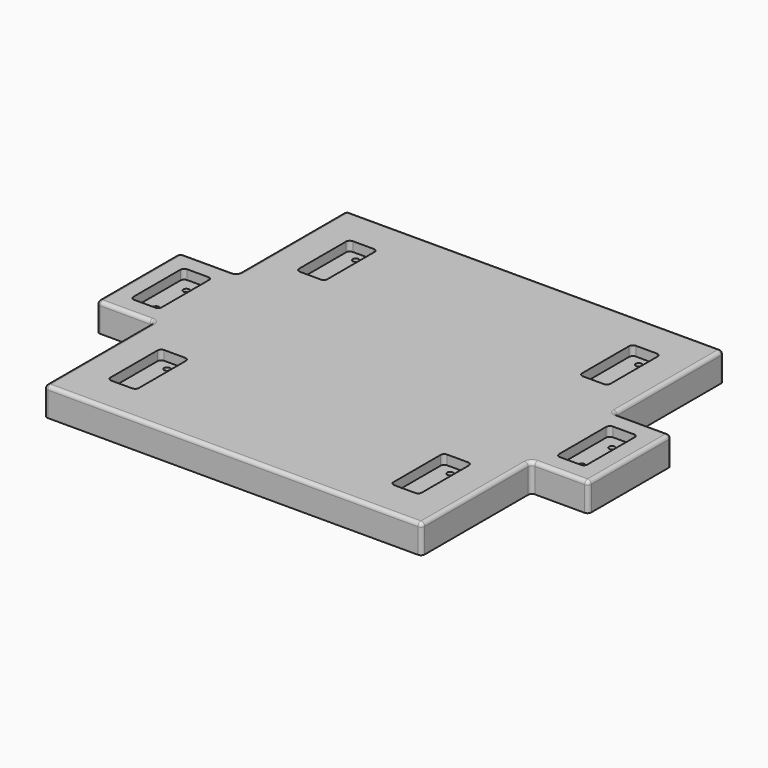
from build123d import *

# Parameters (mm, degrees)
F0_R     = 4
F1_DEPTH = 38.1
F2_R     = 5
F3_W     = 38.1
F3_H     = 88.9
F3_R     = 4
F4_DEPTH = 12.75
F5_R     = 5


with BuildPart() as f1:
    # F0 (on Top) → F1 (new body)
    with BuildSketch(Plane.XY):
        Polygon((253.5, 253.5), (-253.5, 253.5), (-253.5, 69.85), (-330.2, 69.85), (-330.2, -69.85), (-253.5, -69.85), (-253.5, -253.5), (253.5, -253.5), (253.5, -69.85), (330.2, -69.85), (330.2, 69.85), (253.5, 69.85), align=None)
        with Locations((-190, -190)):
            Circle(F0_R, mode=Mode.SUBTRACT)
        with Locations((-190, -126.5)):
            Circle(F0_R, mode=Mode.SUBTRACT)
        with Locations((-285.75, -25.4)):
            Circle(F0_R, mode=Mode.SUBTRACT)
        with Locations((190, -190)):
            Circle(F0_R, mode=Mode.SUBTRACT)
        with Locations((190, -126.5)):
            Circle(F0_R, mode=Mode.SUBTRACT)
        with Locations((285.75, -25.4)):
            Circle(F0_R, mode=Mode.SUBTRACT)
        with Locations((-285.75, 25.4)):
            Circle(F0_R, mode=Mode.SUBTRACT)
        with Locations((-190, 126.5)):
            Circle(F0_R, mode=Mode.SUBTRACT)
        with Locations((-190, 190)):
            Circle(F0_R, mode=Mode.SUBTRACT)
        with Locations((285.75, 25.4)):
            Circle(F0_R, mode=Mode.SUBTRACT)
        with Locations((190, 126.5)):
            Circle(F0_R, mode=Mode.SUBTRACT)
        with Locations((190, 190)):
            Circle(F0_R, mode=Mode.SUBTRACT)
    extrude(amount=F1_DEPTH)

    # F2
    f2_edges = [f1.edges().sort_by_distance(p)[0] for p in [
        (0, -253.5, 38.1),
        (-253.5, -161.675, 38.1),
        (-253.5, -253.5, 19.05),
        (-253.5, -69.85, 19.05),
        (-291.85, -69.85, 38.1),
        (-330.2, -69.85, 19.05),
        (-330.2, 0, 38.1),
        (-291.85, 69.85, 38.1),
        (-253.5, 161.675, 38.1),
        (0, 253.5, 38.1),
        (253.5, 161.675, 38.1),
        (291.85, 69.85, 38.1),
        (253.5, 69.85, 19.05),
        (253.5, 253.5, 19.05),
        (-253.5, 253.5, 19.05),
        (-253.5, 69.85, 19.05),
        (-330.2, 69.85, 19.05),
        (291.85, -69.85, 38.1),
        (330.2, 0, 38.1),
        (330.2, 69.85, 19.05),
        (330.2, -69.85, 19.05),
        (253.5, -69.85, 19.05),
        (253.5, -161.675, 38.1),
        (253.5, -253.5, 19.05),
    ]]
    fillet(f2_edges, radius=F2_R)

    # F3 (on face) → F4 (cut)
    with BuildSketch(Plane.XY.offset(38.1)):
        with Locations((-190, 158.25)):
            Rectangle(F3_W, F3_H)
        with Locations((-190, 126.5)):
            Circle(F3_R, mode=Mode.SUBTRACT)
        with Locations((-190, 190)):
            Circle(F3_R, mode=Mode.SUBTRACT)
        with Locations((190, 158.25)):
            Rectangle(F3_W, F3_H)
        with Locations((190, 126.5)):
            Circle(F3_R, mode=Mode.SUBTRACT)
        with Locations((190, 190)):
            Circle(F3_R, mode=Mode.SUBTRACT)
        with Locations((285.75, 0)):
            Rectangle(F3_W, F3_H)
        with Locations((285.75, -25.4)):
            Circle(F3_R, mode=Mode.SUBTRACT)
        with Locations((285.75, 25.4)):
            Circle(F3_R, mode=Mode.SUBTRACT)
        with Locations((190, -158.25)):
            Rectangle(F3_W, F3_H)
        with Locations((190, -190)):
            Circle(F3_R, mode=Mode.SUBTRACT)
        with Locations((190, -126.5)):
            Circle(F3_R, mode=Mode.SUBTRACT)
        with Locations((-190, -158.25)):
            Rectangle(F3_W, F3_H)
        with Locations((-190, -190)):
            Circle(F3_R, mode=Mode.SUBTRACT)
        with Locations((-190, -126.5)):
            Circle(F3_R, mode=Mode.SUBTRACT)
        with Locations((-285.75, 0)):
            Rectangle(F3_W, F3_H)
        with Locations((-285.75, -25.4)):
            Circle(F3_R, mode=Mode.SUBTRACT)
        with Locations((-285.75, 25.4)):
            Circle(F3_R, mode=Mode.SUBTRACT)
    extrude(amount=-F4_DEPTH, mode=Mode.SUBTRACT)

    # F5
    f5_edges = [f1.edges().sort_by_distance(p)[0] for p in [
        (170.95, 202.7, 31.725),
        (170.95, 113.8, 31.725),
        (209.05, 202.7, 31.725),
        (209.05, 113.8, 31.725),
        (304.8, -44.45, 31.725),
        (304.8, 44.45, 31.725),
        (266.7, 44.45, 31.725),
        (266.7, -44.45, 31.725),
        (170.95, -202.7, 31.725),
        (170.95, -113.8, 31.725),
        (209.05, -113.8, 31.725),
        (209.05, -202.7, 31.725),
        (-209.05, -113.8, 31.725),
        (-170.95, -113.8, 31.725),
        (-170.95, -202.7, 31.725),
        (-209.05, -202.7, 31.725),
        (-304.8, -44.45, 31.725),
        (-266.7, -44.45, 31.725),
        (-266.7, 44.45, 31.725),
        (-304.8, 44.45, 31.725),
        (-209.05, 202.7, 31.725),
        (-170.95, 202.7, 31.725),
        (-170.95, 113.8, 31.725),
        (-209.05, 113.8, 31.725),
    ]]
    fillet(f5_edges, radius=F5_R)


solid = f1.part
